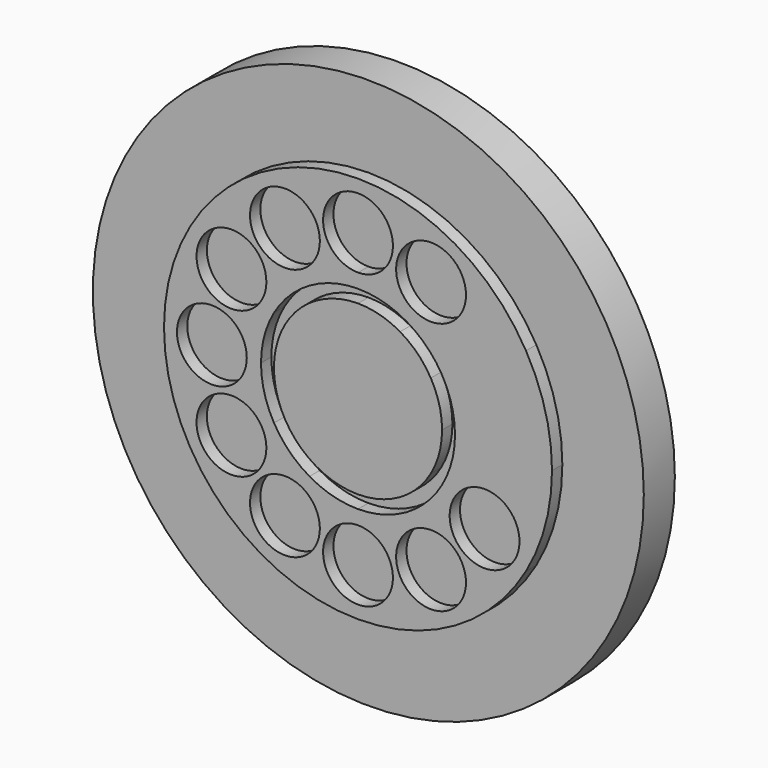
from build123d import *

# Parameters (mm, degrees)
F1_DEPTH = 15
F0_R     = 106.5
F0_R_2   = 13.5
F2_DEPTH = 20


with BuildPart() as f1:
    # F0 (on Front) → F1 (new body)
    with BuildSketch(Plane.XZ):
        with BuildLine():
            ThreePointArc((-36.967626214, 39.2326208569), (-28.5560072482, 38.1252102113), (-20.717626214, 34.8784464799))
            Line((-20.717626214, 34.8784464799), (-18.217626214, 39.2085734988))
            ThreePointArc((-18.217626214, 39.2085734988), (-27.2619120227, 42.9548393428), (-36.967626214, 44.2326208569))
            Line((-36.967626214, 44.2326208569), (-36.967626214, 39.2326208569))
        make_face()
        with BuildLine():
            ThreePointArc((-20.717626214, 34.8784464799), (-13.9866558255, 29.7135912455), (-8.821800591, 22.9826208569))
            Line((-8.821800591, 22.9826208569), (-4.4916735721, 25.4826208569))
            ThreePointArc((-4.4916735721, 25.4826208569), (-10.4511219195, 33.2491251514), (-18.217626214, 39.2085734988))
            Line((-18.217626214, 39.2085734988), (-20.717626214, 34.8784464799))
        make_face()
        with BuildLine():
            ThreePointArc((-8.821800591, 22.9826208569), (-5.5750368596, 15.1442398227), (-4.467626214, 6.7326208569))
            Line((-4.467626214, 6.7326208569), (0.532373786, 6.7326208569))
            ThreePointArc((0.532373786, 6.7326208569), (-0.7454077282, 16.4383350483), (-4.4916735721, 25.4826208569))
            Line((-4.4916735721, 25.4826208569), (-8.821800591, 22.9826208569))
        make_face()
        with BuildLine():
            ThreePointArc((-53.217626214, 34.8784464799), (-45.3792451799, 38.1252102113), (-36.967626214, 39.2326208569))
            Line((-36.967626214, 39.2326208569), (-36.967626214, 44.2326208569))
            ThreePointArc((-36.967626214, 44.2326208569), (-46.6733404054, 42.9548393428), (-55.717626214, 39.2085734988))
            Line((-55.717626214, 39.2085734988), (-53.217626214, 34.8784464799))
        make_face()
        with BuildLine():
            ThreePointArc((-65.108834394, 22.9906158801), (-59.9453321485, 29.7168552359), (-53.217626214, 34.8784464799))
            Line((-53.217626214, 34.8784464799), (-55.717626214, 39.2085734988))
            ThreePointArc((-55.717626214, 39.2085734988), (-63.4808660854, 33.2523891727), (-69.4389615643, 25.4906159675))
            Line((-69.4389615643, 25.4906159675), (-65.108834394, 22.9906158801))
        make_face()
        with BuildLine():
            Line((-74.467626214, 6.7326208569), (-69.467626214, 6.7326208569))
            ThreePointArc((-69.467626214, 6.7326208569), (-68.3590204635, 15.1486987484), (-65.108834394, 22.9906158801))
            Line((-65.108834394, 22.9906158801), (-69.4389615643, 25.4906159675))
            ThreePointArc((-69.4389615643, 25.4906159675), (-73.1886496371, 16.4427939852), (-74.467626214, 6.7326208569))
        make_face()
        with BuildLine():
            ThreePointArc((-65.113451837, -9.5173791431), (-68.3602155684, -1.6789981089), (-69.467626214, 6.7326208569))
            Line((-69.467626214, 6.7326208569), (-74.467626214, 6.7326208569))
            ThreePointArc((-74.467626214, 6.7326208569), (-73.1898446999, -2.9730933344), (-69.4435788559, -12.0173791431))
            Line((-69.4435788559, -12.0173791431), (-65.113451837, -9.5173791431))
        make_face()
        with BuildLine():
            Line((-55.717626214, -25.743331785), (-53.217626214, -21.4132047661))
            ThreePointArc((-53.217626214, -21.4132047661), (-59.9485966026, -16.2483495317), (-65.113451837, -9.5173791431))
            Line((-65.113451837, -9.5173791431), (-69.4435788559, -12.0173791431))
            ThreePointArc((-69.4435788559, -12.0173791431), (-63.4841305085, -19.7838834376), (-55.717626214, -25.743331785))
        make_face()
        with BuildLine():
            Line((-36.967626214, -30.7673791431), (-36.967626214, -25.7673791431))
            ThreePointArc((-36.967626214, -25.7673791431), (-45.3792451799, -24.6599684975), (-53.217626214, -21.4132047661))
            Line((-53.217626214, -21.4132047661), (-55.717626214, -25.743331785))
            ThreePointArc((-55.717626214, -25.743331785), (-46.6733404054, -29.4895976289), (-36.967626214, -30.7673791431))
        make_face()
        with BuildLine():
            Line((-18.217626214, -25.743331785), (-20.717626214, -21.4132047661))
            ThreePointArc((-20.717626214, -21.4132047661), (-28.5560072482, -24.6599684975), (-36.967626214, -25.7673791431))
            Line((-36.967626214, -25.7673791431), (-36.967626214, -30.7673791431))
            ThreePointArc((-36.967626214, -30.7673791431), (-27.2619120227, -29.4895976289), (-18.217626214, -25.743331785))
        make_face()
        with BuildLine():
            Line((0.532373786, 6.7326208569), (-4.467626214, 6.7326208569))
            ThreePointArc((-4.467626214, 6.7326208569), (-5.5750368596, -1.6789981089), (-8.821800591, -9.5173791431))
            Line((-8.821800591, -9.5173791431), (-4.4916735721, -12.0173791431))
            ThreePointArc((-4.4916735721, -12.0173791431), (-0.7454077282, -2.9730933344), (0.532373786, 6.7326208569))
        make_face()
        with BuildLine():
            Line((-4.4916735721, -12.0173791431), (-8.821800591, -9.5173791431))
            ThreePointArc((-8.821800591, -9.5173791431), (-13.9866558255, -16.2483495317), (-20.717626214, -21.4132047661))
            Line((-20.717626214, -21.4132047661), (-18.217626214, -25.743331785))
            ThreePointArc((-18.217626214, -25.743331785), (-10.4511219195, -19.7838834376), (-4.4916735721, -12.0173791431))
        make_face()
    extrude(amount=F1_DEPTH)


with BuildPart() as f1b:
    # F0 (on Front) → F1, piece 2 (new body)
    with BuildSketch(Plane.XZ):
        with Locations((-36.967626214, 6.7326208569)):
            Circle(F0_R)
        with BuildLine():
            ThreePointArc((0.532373786, -58.2192844269), (-109.4120631857, 26.1440492396), (27.9842790698, 44.2326208569))
            ThreePointArc((27.9842790698, 44.2326208569), (35.4768107577, 26.1440492396), (38.032373786, 6.7326208569))
            ThreePointArc((38.032373786, 6.7326208569), (35.4768107577, -12.6788075258), (27.9842790698, -30.7673791431))
            ThreePointArc((27.9842790698, -30.7673791431), (16.065382375, -46.3003877321), (0.532373786, -58.2192844269))
        make_face(mode=Mode.SUBTRACT)
    extrude(amount=F1_DEPTH)


with BuildPart() as f1c:
    # F0 (on Front) → F1, piece 3 (new body)
    with BuildSketch(Plane.XZ):
        with BuildLine():
            ThreePointArc((-51.717626214, 55.6630561707), (-76.9089691651, 62.4130561707), (-58.467626214, 43.9717132196))
            ThreePointArc((-58.467626214, 43.9717132196), (-53.5262832629, 48.9130561707), (-51.717626214, 55.6630561707))
        make_face()
    extrude(amount=F1_DEPTH)


with BuildPart() as f1d:
    # F0 (on Front) → F1, piece 4 (new body)
    with BuildSketch(Plane.XZ):
        with BuildLine():
            ThreePointArc((-72.3934445672, 34.9906161586), (-98.9334432221, 38.4846732675), (-74.2021016161, 28.2406161586))
            ThreePointArc((-74.2021016161, 28.2406161586), (-72.8534459123, 31.4965590497), (-72.3934445672, 34.9906161586))
        make_face()
    extrude(amount=F1_DEPTH)


with BuildPart() as f1e:
    # F0 (on Front) → F1, piece 5 (new body)
    with BuildSketch(Plane.XZ):
        with Locations((-93.467626214, 6.7326208569)):
            Circle(F0_R_2)
    extrude(amount=F1_DEPTH)


with BuildPart() as f1f:
    # F0 (on Front) → F1, piece 6 (new body)
    with BuildSketch(Plane.XZ):
        with BuildLine():
            ThreePointArc((-23.467626214, 63.2326208569), (-46.51356776, 72.7785624029), (-36.967626214, 49.7326208569))
            ThreePointArc((-36.967626214, 49.7326208569), (-27.421684668, 53.6866793109), (-23.467626214, 63.2326208569))
        make_face()
    extrude(amount=F1_DEPTH)


with BuildPart() as f1g:
    # F0 (on Front) → F1, piece 7 (new body)
    with BuildSketch(Plane.XZ):
        with BuildLine():
            ThreePointArc((4.782373786, 55.6630561707), (-15.467626214, 67.3543991218), (-15.467626214, 43.9717132196))
            ThreePointArc((-15.467626214, 43.9717132196), (-1.967626214, 43.9717132196), (4.782373786, 55.6630561707))
        make_face()
    extrude(amount=F1_DEPTH)


with BuildPart() as f1h:
    # F0 (on Front) → F1, piece 8 (new body)
    with BuildSketch(Plane.XZ):
        with BuildLine():
            ThreePointArc((-72.3980615278, -21.5173791431), (-72.8580628729, -18.0233220342), (-74.2067185768, -14.7673791431))
            Line((-74.2067185768, -14.7673791431), (-97.5894044789, -28.2673791431))
            ThreePointArc((-97.5894044789, -28.2673791431), (-82.404004419, -34.557377798), (-72.3980615278, -21.5173791431))
        make_face()
        with BuildLine():
            Line((-97.5894044789, -28.2673791431), (-74.2067185768, -14.7673791431))
            ThreePointArc((-74.2067185768, -14.7673791431), (-92.6480615278, -9.826036192), (-97.5894044789, -28.2673791431))
        make_face()
    extrude(amount=F1_DEPTH)


with BuildPart() as f1i:
    # F0 (on Front) → F1, piece 9 (new body)
    with BuildSketch(Plane.XZ):
        with BuildLine():
            ThreePointArc((-51.717626214, -42.1978144569), (-53.5262832629, -35.4478144569), (-58.467626214, -30.5064715058))
            Line((-58.467626214, -30.5064715058), (-71.967626214, -53.889157408))
            ThreePointArc((-71.967626214, -53.889157408), (-58.467626214, -53.889157408), (-51.717626214, -42.1978144569))
        make_face()
        with BuildLine():
            Line((-71.967626214, -53.889157408), (-58.467626214, -30.5064715058))
            ThreePointArc((-58.467626214, -30.5064715058), (-76.9089691651, -35.4478144569), (-71.967626214, -53.889157408))
        make_face()
    extrude(amount=F1_DEPTH)


with BuildPart() as f1j:
    # F0 (on Front) → F1, piece 10 (new body)
    with BuildSketch(Plane.XZ):
        with BuildLine():
            ThreePointArc((-23.467626214, -49.7673791431), (-27.421684668, -40.2214375971), (-36.967626214, -36.2673791431))
            ThreePointArc((-36.967626214, -36.2673791431), (-46.51356776, -59.3133206891), (-23.467626214, -49.7673791431))
        make_face()
    extrude(amount=F1_DEPTH)


with BuildPart() as f1k:
    # F0 (on Front) → F1, piece 11 (new body)
    with BuildSketch(Plane.XZ):
        with BuildLine():
            Line((-1.967626214, -53.889157408), (-15.467626214, -30.5064715058))
            ThreePointArc((-15.467626214, -30.5064715058), (-20.4089691651, -48.9478144569), (-1.967626214, -53.889157408))
        make_face()
        with BuildLine():
            ThreePointArc((4.782373786, -42.1978144569), (-1.967626214, -30.5064715058), (-15.467626214, -30.5064715058))
            Line((-15.467626214, -30.5064715058), (-1.967626214, -53.889157408))
            ThreePointArc((-1.967626214, -53.889157408), (2.9737167371, -48.9478144569), (4.782373786, -42.1978144569))
        make_face()
    extrude(amount=F1_DEPTH)


with BuildPart() as f1l:
    # F0 (on Front) → F1, piece 12 (new body)
    with BuildSketch(Plane.XZ):
        with BuildLine():
            Line((23.6541520509, -28.2673791431), (0.2714661487, -14.7673791431))
            ThreePointArc((0.2714661487, -14.7673791431), (5.2128090998, -33.2087220942), (23.6541520509, -28.2673791431))
        make_face()
        with BuildLine():
            ThreePointArc((25.4628090998, -21.5173791431), (15.4568662087, -8.4773804882), (0.2714661487, -14.7673791431))
            Line((0.2714661487, -14.7673791431), (23.6541520509, -28.2673791431))
            ThreePointArc((23.6541520509, -28.2673791431), (25.0028077547, -25.011436252), (25.4628090998, -21.5173791431))
        make_face()
    extrude(amount=F1_DEPTH)


with BuildPart() as f2:
    # F0 (on Front) → F2 (new body)
    with BuildSketch(Plane.XZ):
        with BuildLine():
            ThreePointArc((-18.217626214, 39.2085734988), (-10.4511219195, 33.2491251514), (-4.4916735721, 25.4826208569))
            Line((-4.4916735721, 25.4826208569), (27.9842790698, 44.2326208569))
            ThreePointArc((27.9842790698, 44.2326208569), (-109.4120631857, 26.1440492396), (0.532373786, -58.2192844269))
            Line((0.532373786, -58.2192844269), (-1.967626214, -53.889157408))
            ThreePointArc((-1.967626214, -53.889157408), (-20.4089691651, -48.9478144569), (-15.467626214, -30.5064715058))
            Line((-15.467626214, -30.5064715058), (-18.217626214, -25.743331785))
            ThreePointArc((-18.217626214, -25.743331785), (-27.2619120227, -29.4895976289), (-36.967626214, -30.7673791431))
            ThreePointArc((-36.967626214, -30.7673791431), (-46.6733404054, -29.4895976289), (-55.717626214, -25.743331785))
            ThreePointArc((-55.717626214, -25.743331785), (-63.4841305085, -19.7838834376), (-69.4435788559, -12.0173791431))
            ThreePointArc((-69.4435788559, -12.0173791431), (-73.1898446999, -2.9730933344), (-74.467626214, 6.7326208569))
            ThreePointArc((-74.467626214, 6.7326208569), (-73.1886496371, 16.4427939852), (-69.4389615643, 25.4906159675))
            ThreePointArc((-69.4389615643, 25.4906159675), (-63.4808660854, 33.2523891727), (-55.717626214, 39.2085734988))
            ThreePointArc((-55.717626214, 39.2085734988), (-46.6733404054, 42.9548393428), (-36.967626214, 44.2326208569))
            ThreePointArc((-36.967626214, 44.2326208569), (-27.2619120227, 42.9548393428), (-18.217626214, 39.2085734988))
        make_face()
        with BuildLine():
            ThreePointArc((-71.967626214, -53.889157408), (-76.9089691651, -35.4478144569), (-58.467626214, -30.5064715058))
            ThreePointArc((-58.467626214, -30.5064715058), (-53.5262832629, -35.4478144569), (-51.717626214, -42.1978144569))
            ThreePointArc((-51.717626214, -42.1978144569), (-58.467626214, -53.889157408), (-71.967626214, -53.889157408))
        make_face(mode=Mode.SUBTRACT)
        with BuildLine():
            ThreePointArc((-97.5894044789, -28.2673791431), (-92.6480615278, -9.826036192), (-74.2067185768, -14.7673791431))
            ThreePointArc((-74.2067185768, -14.7673791431), (-72.8580628729, -18.0233220342), (-72.3980615278, -21.5173791431))
            ThreePointArc((-72.3980615278, -21.5173791431), (-82.404004419, -34.557377798), (-97.5894044789, -28.2673791431))
        make_face(mode=Mode.SUBTRACT)
        with BuildLine():
            ThreePointArc((-23.467626214, -49.7673791431), (-46.51356776, -59.3133206891), (-36.967626214, -36.2673791431))
            ThreePointArc((-36.967626214, -36.2673791431), (-27.421684668, -40.2214375971), (-23.467626214, -49.7673791431))
        make_face(mode=Mode.SUBTRACT)
        with Locations((-93.467626214, 6.7326208569)):
            Circle(F0_R_2, mode=Mode.SUBTRACT)
        with BuildLine():
            ThreePointArc((-72.3934445672, 34.9906161586), (-72.8534459123, 31.4965590497), (-74.2021016161, 28.2406161586))
            ThreePointArc((-74.2021016161, 28.2406161586), (-98.9334432221, 38.4846732675), (-72.3934445672, 34.9906161586))
        make_face(mode=Mode.SUBTRACT)
        with BuildLine():
            ThreePointArc((-51.717626214, 55.6630561707), (-53.5262832629, 48.9130561707), (-58.467626214, 43.9717132196))
            ThreePointArc((-58.467626214, 43.9717132196), (-76.9089691651, 62.4130561707), (-51.717626214, 55.6630561707))
        make_face(mode=Mode.SUBTRACT)
        with BuildLine():
            ThreePointArc((4.782373786, 55.6630561707), (-1.967626214, 43.9717132196), (-15.467626214, 43.9717132196))
            ThreePointArc((-15.467626214, 43.9717132196), (-15.467626214, 67.3543991218), (4.782373786, 55.6630561707))
        make_face(mode=Mode.SUBTRACT)
        with BuildLine():
            ThreePointArc((-23.467626214, 63.2326208569), (-27.421684668, 53.6866793109), (-36.967626214, 49.7326208569))
            ThreePointArc((-36.967626214, 49.7326208569), (-46.51356776, 72.7785624029), (-23.467626214, 63.2326208569))
        make_face(mode=Mode.SUBTRACT)
        with BuildLine():
            ThreePointArc((-4.4916735721, 25.4826208569), (-0.7454077282, 16.4383350483), (0.532373786, 6.7326208569))
            ThreePointArc((0.532373786, 6.7326208569), (-0.7454077282, -2.9730933344), (-4.4916735721, -12.0173791431))
            Line((-4.4916735721, -12.0173791431), (0.2714661487, -14.7673791431))
            ThreePointArc((0.2714661487, -14.7673791431), (15.4568662087, -8.4773804882), (25.4628090998, -21.5173791431))
            ThreePointArc((25.4628090998, -21.5173791431), (25.0028077547, -25.011436252), (23.6541520509, -28.2673791431))
            Line((23.6541520509, -28.2673791431), (27.9842790698, -30.7673791431))
            ThreePointArc((27.9842790698, -30.7673791431), (35.4768107577, -12.6788075258), (38.032373786, 6.7326208569))
            ThreePointArc((38.032373786, 6.7326208569), (35.4768107577, 26.1440492396), (27.9842790698, 44.2326208569))
            Line((27.9842790698, 44.2326208569), (-4.4916735721, 25.4826208569))
        make_face()
        with BuildLine():
            Line((0.2714661487, -14.7673791431), (-4.4916735721, -12.0173791431))
            ThreePointArc((-4.4916735721, -12.0173791431), (-10.4511219195, -19.7838834376), (-18.217626214, -25.743331785))
            Line((-18.217626214, -25.743331785), (-15.467626214, -30.5064715058))
            ThreePointArc((-15.467626214, -30.5064715058), (-1.967626214, -30.5064715058), (4.782373786, -42.1978144569))
            ThreePointArc((4.782373786, -42.1978144569), (2.9737167371, -48.9478144569), (-1.967626214, -53.889157408))
            Line((-1.967626214, -53.889157408), (0.532373786, -58.2192844269))
            ThreePointArc((0.532373786, -58.2192844269), (16.065382375, -46.3003877321), (27.9842790698, -30.7673791431))
            Line((27.9842790698, -30.7673791431), (23.6541520509, -28.2673791431))
            ThreePointArc((23.6541520509, -28.2673791431), (5.2128090998, -33.2087220942), (0.2714661487, -14.7673791431))
        make_face()
    extrude(amount=F2_DEPTH)


with BuildPart() as f2b:
    # F0 (on Front) → F2, piece 2 (new body)
    with BuildSketch(Plane.XZ):
        with BuildLine():
            Line((-36.967626214, 39.2326208569), (-36.967626214, 6.7326208569))
            Line((-36.967626214, 6.7326208569), (-20.717626214, 34.8784464799))
            ThreePointArc((-20.717626214, 34.8784464799), (-28.5560072482, 38.1252102113), (-36.967626214, 39.2326208569))
        make_face()
        with BuildLine():
            Line((-36.9768588287, 6.7486122146), (-36.967626214, 6.7326208569))
            Line((-36.967626214, 6.7326208569), (-36.967626214, 39.2326208569))
            ThreePointArc((-36.967626214, 39.2326208569), (-45.3792451799, 38.1252102113), (-53.217626214, 34.8784464799))
            Line((-53.217626214, 34.8784464799), (-36.9768588287, 6.7486122146))
        make_face()
        with BuildLine():
            Line((-65.108834394, 22.9906158801), (-36.9768588287, 6.7486122146))
            Line((-36.9768588287, 6.7486122146), (-53.217626214, 34.8784464799))
            ThreePointArc((-53.217626214, 34.8784464799), (-59.9453321485, 29.7168552359), (-65.108834394, 22.9906158801))
        make_face()
        with BuildLine():
            Line((-65.113451837, -9.5173791431), (-36.967626214, 6.7326208569))
            Line((-36.967626214, 6.7326208569), (-69.467626214, 6.7326208569))
            ThreePointArc((-69.467626214, 6.7326208569), (-68.3602155684, -1.6789981089), (-65.113451837, -9.5173791431))
        make_face()
        with BuildLine():
            Line((-53.217626214, -21.4132047661), (-36.967626214, 6.7326208569))
            Line((-36.967626214, 6.7326208569), (-65.113451837, -9.5173791431))
            ThreePointArc((-65.113451837, -9.5173791431), (-59.9485966026, -16.2483495317), (-53.217626214, -21.4132047661))
        make_face()
        with BuildLine():
            Line((-36.967626214, -25.7673791431), (-36.967626214, 6.7326208569))
            Line((-36.967626214, 6.7326208569), (-53.217626214, -21.4132047661))
            ThreePointArc((-53.217626214, -21.4132047661), (-45.3792451799, -24.6599684975), (-36.967626214, -25.7673791431))
        make_face()
        with BuildLine():
            Line((-20.717626214, -21.4132047661), (-36.967626214, 6.7326208569))
            Line((-36.967626214, 6.7326208569), (-36.967626214, -25.7673791431))
            ThreePointArc((-36.967626214, -25.7673791431), (-28.5560072482, -24.6599684975), (-20.717626214, -21.4132047661))
        make_face()
        with BuildLine():
            Line((-69.467626214, 6.7326208569), (-36.967626214, 6.7326208569))
            Line((-36.967626214, 6.7326208569), (-36.9768588287, 6.7486122146))
            Line((-36.9768588287, 6.7486122146), (-65.108834394, 22.9906158801))
            ThreePointArc((-65.108834394, 22.9906158801), (-68.3590204635, 15.1486987484), (-69.467626214, 6.7326208569))
        make_face()
        with BuildLine():
            Line((-36.967626214, 6.7326208569), (-8.821800591, 22.9826208569))
            ThreePointArc((-8.821800591, 22.9826208569), (-13.9866558255, 29.7135912455), (-20.717626214, 34.8784464799))
            Line((-20.717626214, 34.8784464799), (-36.967626214, 6.7326208569))
        make_face()
        with BuildLine():
            Line((-36.967626214, 6.7326208569), (-4.467626214, 6.7326208569))
            ThreePointArc((-4.467626214, 6.7326208569), (-5.5750368596, 15.1442398227), (-8.821800591, 22.9826208569))
            Line((-8.821800591, 22.9826208569), (-36.967626214, 6.7326208569))
        make_face()
        with BuildLine():
            ThreePointArc((-8.821800591, -9.5173791431), (-5.5750368596, -1.6789981089), (-4.467626214, 6.7326208569))
            Line((-4.467626214, 6.7326208569), (-36.967626214, 6.7326208569))
            Line((-36.967626214, 6.7326208569), (-8.821800591, -9.5173791431))
        make_face()
        with BuildLine():
            ThreePointArc((-20.717626214, -21.4132047661), (-13.9866558255, -16.2483495317), (-8.821800591, -9.5173791431))
            Line((-8.821800591, -9.5173791431), (-36.967626214, 6.7326208569))
            Line((-36.967626214, 6.7326208569), (-20.717626214, -21.4132047661))
        make_face()
    extrude(amount=F2_DEPTH)


solid = Compound([f1.part, f1b.part, f1c.part, f1d.part, f1e.part, f1f.part, f1g.part, f1h.part, f1i.part, f1j.part, f1k.part, f1l.part, f2.part, f2b.part])
